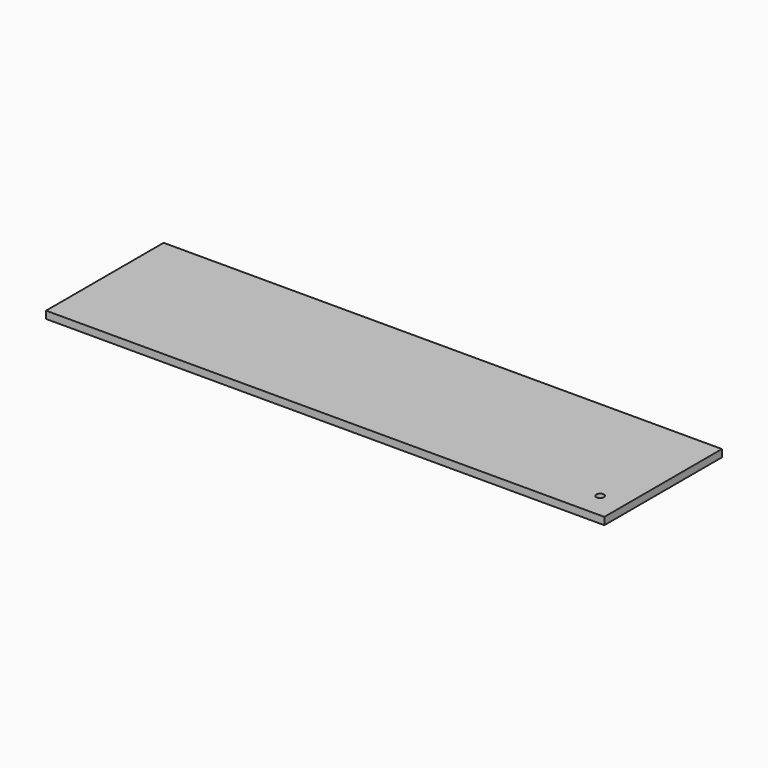
from build123d import *

# Parameters (mm, degrees)
F0_W     = 482.6
F0_H     = 127
F1_DEPTH = 6.35
F2_R     = 3.302
F3_DEPTH = 6.35


with BuildPart() as f1:
    # F0 (on Top) → F1 (new body)
    with BuildSketch(Plane.XY):
        Rectangle(F0_W, F0_H)
    extrude(amount=-F1_DEPTH)

    # F2 (on face) → F3 (cut)
    with BuildSketch(Plane.XY):
        with Locations((219.86875, -41.275)):
            Circle(F2_R)
    extrude(amount=-F3_DEPTH, mode=Mode.SUBTRACT)


solid = f1.part
